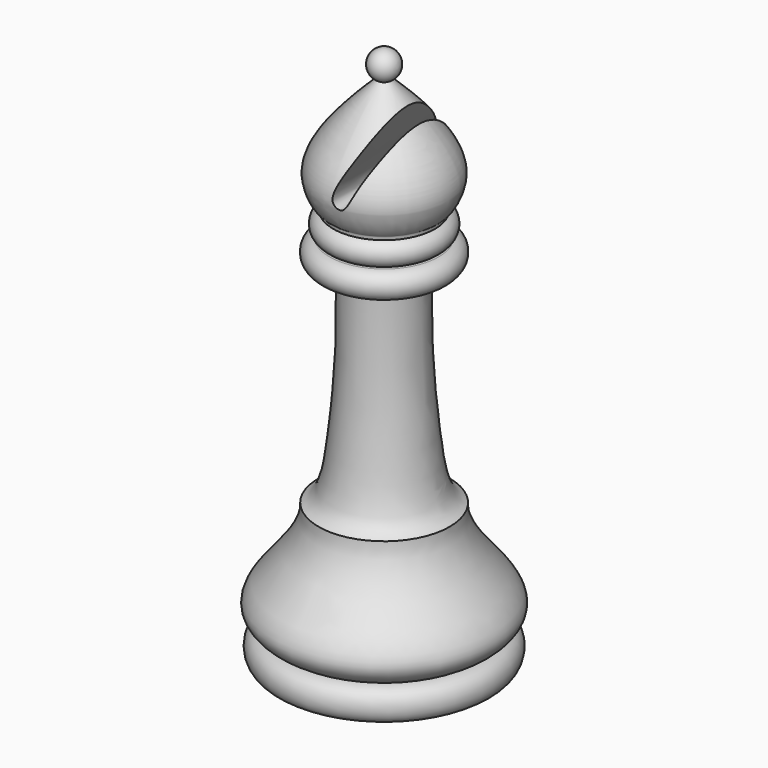
from build123d import *

# Parameters (mm, degrees)
F4_DEPTH = 25


with BuildPart() as f1:
    # F0 (on Front) → F1 (revolve)
    with BuildSketch(Plane.XZ):
        with BuildLine():
            Line((0, 70.382244315), (0, 0))
            Line((0, 0), (13, 0))
            add(Edge.make_bspline(
                [(13, 0), (14.4182929303, 2.388e-07), (15.6268121181, 2.0592387007), (14.5002994381, 4.2781789123), (12.9885887727, 4.4000972994)],
                knots=[0, 0, 0, 0, 0.4912653704, 1, 1, 1, 1], degree=3))
            add(Edge.make_bspline(
                [(8.9882854372, 19.4124020636), (8.8925407709, 17.7835183331), (10.3366017898, 14.7368821228), (12.8453170873, 11.6701043776), (16.3365581004, 7.5164302781), (14.5434276789, 5.2459739061), (12.9885887727, 4.4000972994)],
                knots=[0, 0, 0, 0, 0.2597208936, 0.5066171863, 0.7635772945, 1, 1, 1, 1], degree=3))
            add(Edge.make_bspline(
                [(8.9882854372, 19.4124020636), (7.9576257031, 19.8506776743), (6.8183057595, 21.9290505504), (5.9450839533, 27.933789456), (4.8432327091, 39.4877453508), (5.2572404966, 47.8714033961)],
                knots=[0, 0, 0, 0, 0.2003316959, 0.4728463407, 1, 1, 1, 1], degree=3))
            Line((5.2572404966, 47.8714033961), (7.4782315642, 47.8714033961))
            ThreePointArc((7.4782315642, 47.8714033961), (9.0244679109, 49.6772904614), (7.4782315642, 51.4831775266))
            Line((7.4782315642, 51.4831775266), (6.9684241898, 51.4831775266))
            ThreePointArc((6.9684241898, 51.4831775266), (8.0636926732, 53.0940950581), (6.9684241898, 54.7050125897))
            add(Edge.make_bspline(
                [(6.9684241898, 54.7050125897), (7.0047512468, 55.296202269), (7.3356349489, 54.9921178796), (10.1758860308, 59.6548222318), (5.5067714071, 65.9839864382), (3.207984043, 68.3221321222), (0.8836412282, 70.5946516118)],
                knots=[0, 0, 0, 0, 0.1017389922, 0.3421461253, 0.6580374103, 0.9636105484, 0.9636105484, 0.9636105484, 0.9636105484], degree=3))
            ThreePointArc((0.8836412282, 70.5946516118), (0.4544058428, 70.4360918197), (0, 70.382244315))
        make_face()
        with BuildLine():
            Line((0, 71.4571028948), (0, 70.382244315))
            ThreePointArc((0, 70.382244315), (0.4544058428, 70.4360918197), (0.8836412282, 70.5946516118))
            add(Edge.make_bspline(
                [(0.8836412282, 70.5946516118), (0.6068447769, 70.8652766358), (0.3131152126, 71.1518253975), (0, 71.4571028948)],
                knots=[0.9636105484, 0.9636105484, 0.9636105484, 0.9636105484, 1, 1, 1, 1], degree=3))
        make_face()
        with BuildLine():
            Line((0, 74.270710919), (0, 71.4571028948))
            add(Edge.make_bspline(
                [(0.8836412282, 70.5946516118), (0.6068447769, 70.8652766358), (0.3131152126, 71.1518253975), (0, 71.4571028948)],
                knots=[0.9636105484, 0.9636105484, 0.9636105484, 0.9636105484, 1, 1, 1, 1], degree=3))
            ThreePointArc((0.8836412282, 70.5946516118), (1.8903857973, 72.7808834598), (0, 74.270710919))
        make_face()
    revolve(axis=Axis((0, 0, 37.1353554595), (0, 0, -1)))

    # F3 (on offset) → F4 (cut)
    with BuildSketch(Plane.XZ.offset(9.7)):
        with BuildLine():
            Line((4.7758305867, 66.6937711375), (3.211699659, 68.411052227))
            add(Edge.make_bspline(
                [(3.211699659, 68.411052227), (2.1710066516, 65.7226593677), (1.4107420833, 63.5465441208), (-0.5000881667, 59.4823132571), (0.6483009668, 58.481347617), (1.7423262615, 58.6116451924), (3.1039446029, 62.2559401693), (3.8452988724, 63.8999851171), (4.7758305867, 66.6937711375)],
                knots=[0, 0, 0, 0, 0.233286493, 0.4180688569, 0.5178417973, 0.6047093468, 0.7753389515, 1, 1, 1, 1], degree=3))
        make_face()
    extrude(amount=-F4_DEPTH, mode=Mode.SUBTRACT)


solid = f1.part
